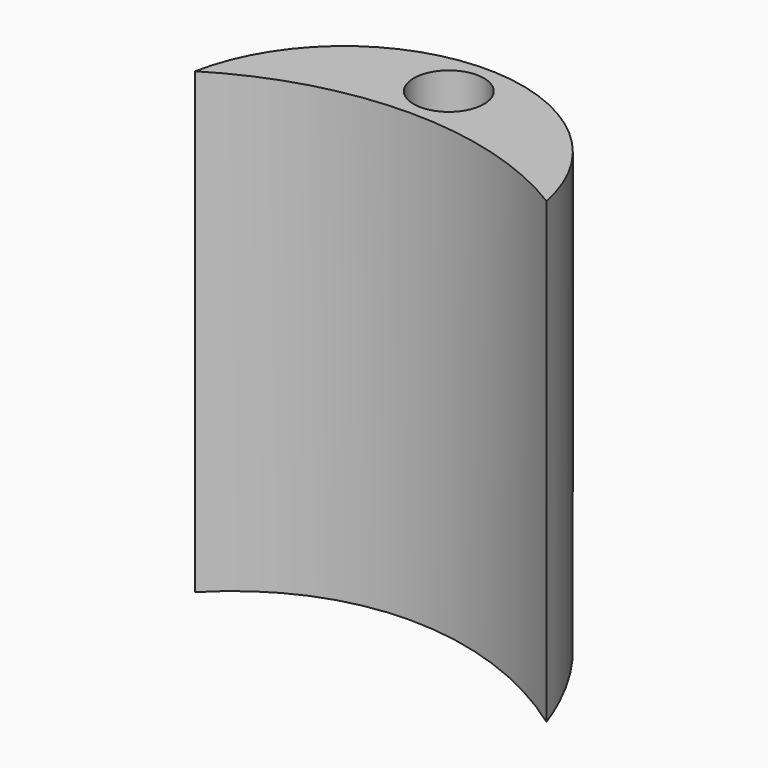
from build123d import *

# Parameters (mm, degrees)
F0_R          = 1
F2_DEPTH      = 15
F3_DEPTH      = 15.001
F5_DEPTH      = 5.001
F5_DEPTH_BACK = 5.001


with BuildPart() as f2:
    # F0 (on Top) → F2 (new body)
    with BuildSketch(Plane.XY):
        with BuildLine():
            ThreePointArc((-5, 8.0777472107), (-4.6233105022, -8.2990963363), (9.5, 0))
            ThreePointArc((9.5, 0), (8.2990963363, 4.6233105022), (5, 8.0777472107))
            ThreePointArc((5, 8.0777472107), (0, 9.5), (-5, 8.0777472107))
        make_face()
        with BuildLine():
            ThreePointArc((-5, 8.0777472107), (0, 9.5), (5, 8.0777472107))
            ThreePointArc((5, 8.0777472107), (0, 12.2076506099), (-5, 8.0777472107))
        make_face()
        with Locations((0, 10.8538253049)):
            Circle(F0_R, mode=Mode.SUBTRACT)
    extrude(amount=F2_DEPTH)

    # F1 (on Top) → F3 (cut, through all)
    with BuildSketch(Plane.XY):
        with BuildLine():
            Line((-5, 0), (0, 0))
            Line((0, 0), (5, 0))
            Line((5, 0), (5, 8.0777472107))
            ThreePointArc((5, 8.0777472107), (0, 9.5), (-5, 8.0777472107))
            Line((-5, 8.0777472107), (-5, 0))
        make_face()
        with BuildLine():
            Line((5, 0), (0, 0))
            Line((0, 0), (-5, 0))
            Line((-5, 0), (-5, 8.0777472107))
            ThreePointArc((-5, 8.0777472107), (-4.6233105022, -8.2990963363), (9.5, 0))
            ThreePointArc((9.5, 0), (8.2990963363, 4.6233105022), (5, 8.0777472107))
            Line((5, 8.0777472107), (5, 0))
        make_face()
        with BuildLine():
            Line((5, 20), (5, 8.0777472107))
            ThreePointArc((5, 8.0777472107), (8.2990963363, 4.6233105022), (9.5, 0))
            ThreePointArc((9.5, 0), (-4.6233105022, -8.2990963363), (-5, 8.0777472107))
            Line((-5, 8.0777472107), (-5, 20))
            Line((-5, 20), (-15, 20))
            Line((-15, 20), (-15, -15))
            Line((-15, -15), (15, -15))
            Line((15, -15), (15, 20))
            Line((15, 20), (5, 20))
        make_face()
    extrude(amount=F3_DEPTH, mode=Mode.SUBTRACT)

    # F4 (on Right) → F5 (cut, two sides)
    with BuildSketch(Plane.YZ) as f5_sk:
        Polygon((17.0873440802, 4.1219498962), (0, 0), (17.0873440802, 0), align=None)
    extrude(amount=F5_DEPTH, mode=Mode.SUBTRACT)
    extrude(f5_sk.sketch, amount=-F5_DEPTH_BACK, mode=Mode.SUBTRACT)


solid = f2.part
